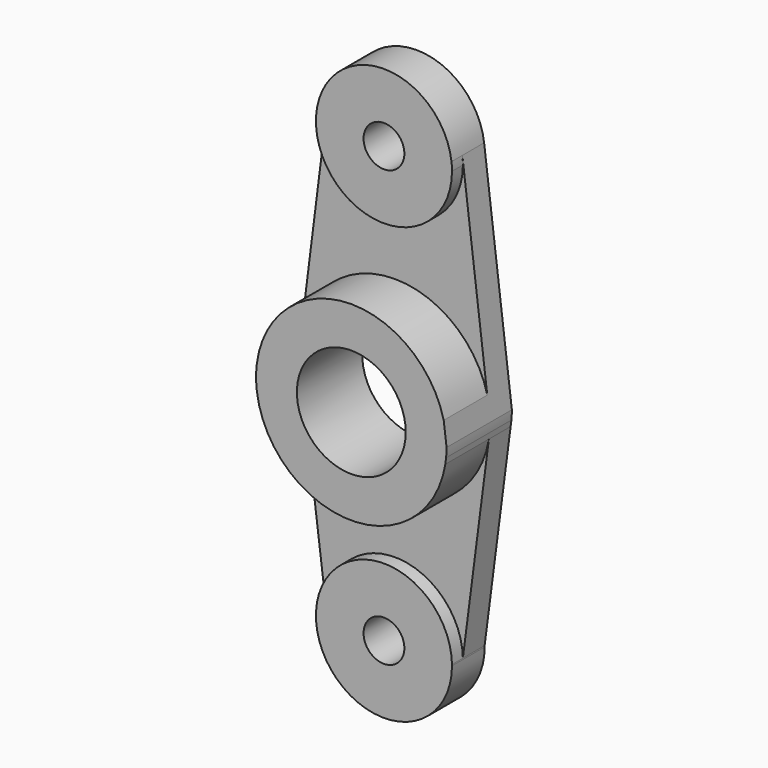
from build123d import *

# Parameters (mm, degrees)
F0_R     = 12.7
F1_DEPTH = 19.05
F2_DEPTH = 6.35
F0_R_2   = 4.7625
F3_DEPTH = 9.525


with BuildPart() as f1:
    # F0 (on Front) → F1 (new body)
    with BuildSketch(Plane.XZ):
        with BuildLine():
            Line((21.9405616204, -3.5443449016), (22.1211236947, -2.1462785193))
            ThreePointArc((22.1211236947, -2.1462785193), (22.199015734, -1.0743953845), (22.225, 0))
            Line((22.225, 0), (21.5661626468, 5.3713363041))
            ThreePointArc((21.5661626468, 5.3713363041), (-1.3190436674, 22.1858231491), (-22.0506835685, 2.7781251166))
            ThreePointArc((-22.0506835685, 2.7781251166), (-22.225, 1.708e-07), (-22.0506836112, -2.7781247776))
            ThreePointArc((-22.0506836112, -2.7781247776), (-0.3870465512, -22.2216295525), (21.9405616204, -3.5443449016))
        make_face()
        Circle(F0_R, mode=Mode.SUBTRACT)
    extrude(amount=F1_DEPTH)

    # F0 (on Front) → F2 (join)
    with BuildSketch(Plane.XZ):
        with BuildLine():
            ThreePointArc((-22.0506835685, 2.7781251166), (-1.3190436674, 22.1858231491), (21.5661626468, 5.3713363041))
            Line((21.5661626468, 5.3713363041), (15.7569112616, 52.732711177))
            ThreePointArc((15.7569112616, 52.732711177), (15.8454503135, 51.7681577149), (15.875, 50.8))
            ThreePointArc((15.875, 50.8), (-0.9941387366, 34.9561585096), (-15.7504882737, 52.784375))
            Line((-15.7504882737, 52.784375), (-22.0506835685, 2.7781251166))
        make_face()
        with BuildLine():
            Line((15.8726570063, -50.5272646713), (21.9405616204, -3.5443449016))
            ThreePointArc((21.9405616204, -3.5443449016), (-0.3870465512, -22.2216295525), (-22.0506836112, -2.7781247776))
            Line((-22.0506836112, -2.7781247776), (-15.7504882737, -52.784375))
            ThreePointArc((-15.7504882737, -52.784375), (-1.1302070867, -34.9652831746), (15.8726570063, -50.5272646713))
        make_face()
    extrude(amount=F2_DEPTH)

    # F0 (on Front) → F3 (join)
    with BuildSketch(Plane.XZ):
        with BuildLine():
            ThreePointArc((15.875, 50.8), (15.8454503135, 51.7681577149), (15.7569112616, 52.732711177))
            ThreePointArc((15.7569112616, 52.732711177), (0.0260307769, 66.6749786582), (-15.7504882737, 52.784375))
            ThreePointArc((-15.7504882737, 52.784375), (-0.9941387366, 34.9561585096), (15.875, 50.8))
        make_face()
        with Locations((0, 50.8)):
            Circle(F0_R_2, mode=Mode.SUBTRACT)
        with BuildLine():
            ThreePointArc((15.875, -50.8), (15.8744142408, -50.6636273038), (15.8726570063, -50.5272646713))
            ThreePointArc((15.8726570063, -50.5272646713), (-1.1302070867, -34.9652831746), (-15.7504882737, -52.784375))
            ThreePointArc((-15.7504882737, -52.784375), (0.9941387366, -66.6438414904), (15.875, -50.8))
        make_face()
        with Locations((0, -50.8)):
            Circle(F0_R_2, mode=Mode.SUBTRACT)
    extrude(amount=F3_DEPTH)


solid = f1.part
